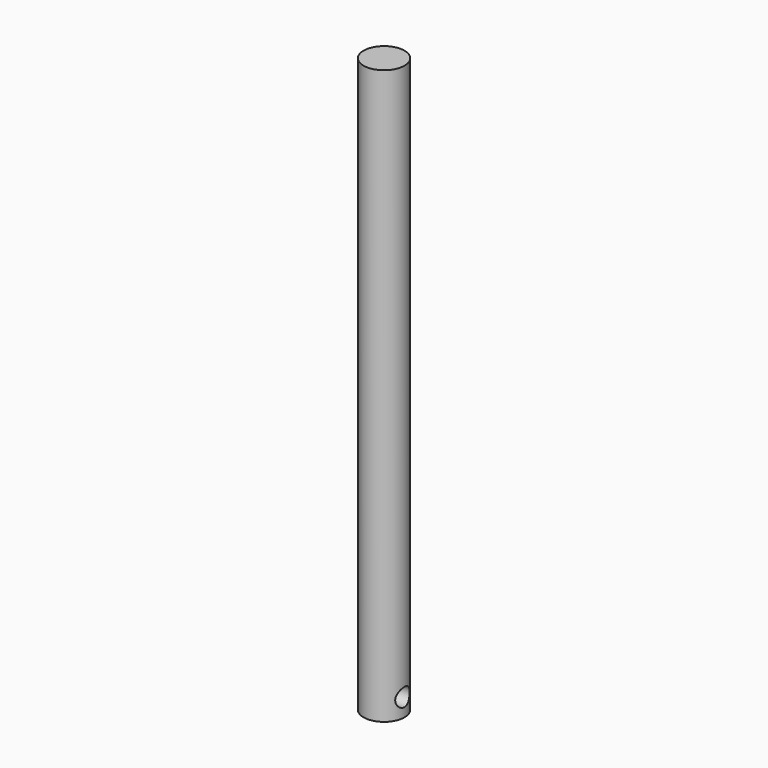
from build123d import *

# Parameters (mm, degrees)
F0_R          = 7.239
F1_DEPTH      = 203.2
F2_R          = 3.175
F3_DEPTH      = 25.4
F3_DEPTH_BACK = 25.4


with BuildPart() as f1:
    # F0 (on Top) → F1 (new body)
    with BuildSketch(Plane.XY):
        Circle(F0_R)
    extrude(amount=F1_DEPTH)

    # F2 (on Right) → F3 (cut, two sides)
    with BuildSketch(Plane.YZ) as f3_sk:
        with Locations((0, 6.35)):
            Circle(F2_R)
    extrude(amount=-F3_DEPTH, mode=Mode.SUBTRACT)
    extrude(f3_sk.sketch, amount=F3_DEPTH_BACK, mode=Mode.SUBTRACT)


solid = f1.part
